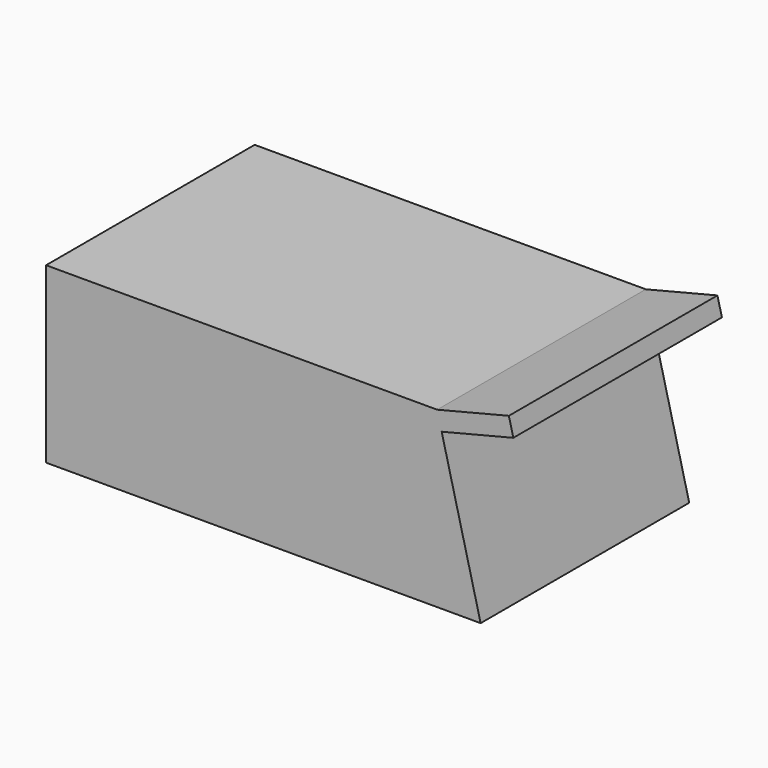
from build123d import *

# Parameters (mm, degrees)
F1_DEPTH = 60
F2_DEPTH = 60
F3_T     = -3


with BuildPart() as f1:
    # F0 (on Front) → F1 (new body)
    with BuildSketch(Plane.XZ):
        Polygon((-57.1974544724, 40), (-57.1974544724, 0), (42.8025455276, 0), (33.833321934, 35.8768943744), (32.8025455276, 40), align=None)
    extrude(amount=F1_DEPTH)

    # F0 (on Front) → F2 (join)
    with BuildSketch(Plane.XZ):
        Polygon((32.8025455276, 40), (33.833321934, 35.8768943744), (50.3257444365, 40), (49.2949680301, 44.1231056256), align=None)
    extrude(amount=F2_DEPTH)

    # F3
    f3_openings = [f1.faces().sort_by_distance(p)[0] for p in [
        (-7.197454, -30, 0),
    ]]
    offset(amount=F3_T, openings=f3_openings, kind=Kind.INTERSECTION)


solid = f1.part
